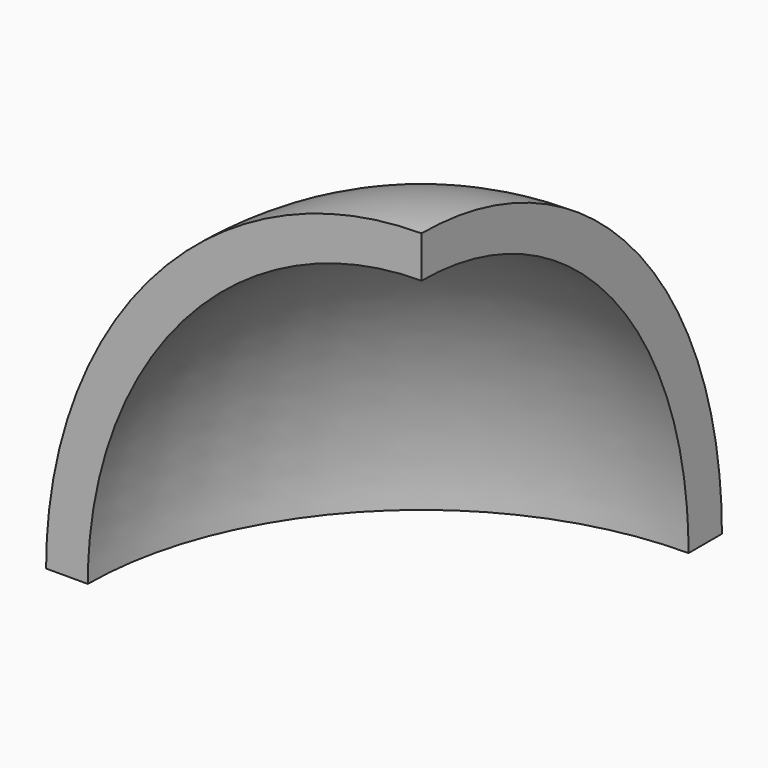
from build123d import *

# Parameters (mm, degrees)
F1_ANGLE = 90


with BuildPart() as f1:
    # F0 (on Front) → F1 (revolve)
    with BuildSketch(Plane.XZ):
        with BuildLine():
            Line((0, 45), (0, 50))
            add(Edge.make_bspline(
                [(0, 50), (-45, 50), (-45, 0)],
                knots=[0, 0, 0, 1.5707963268, 1.5707963268, 1.5707963268], degree=2, weights=[1, 0.7071067812, 1]))
            Line((-45, 0), (-40, 0))
            add(Edge.make_bspline(
                [(0, 45), (-40, 45), (-40, 0)],
                knots=[0, 0, 0, 1.5707963268, 1.5707963268, 1.5707963268], degree=2, weights=[1, 0.7071067812, 1]))
        make_face()
    revolve(axis=Axis((0, 0, 30.1001816988), (0, 0, -1)), revolution_arc=F1_ANGLE)


solid = f1.part
